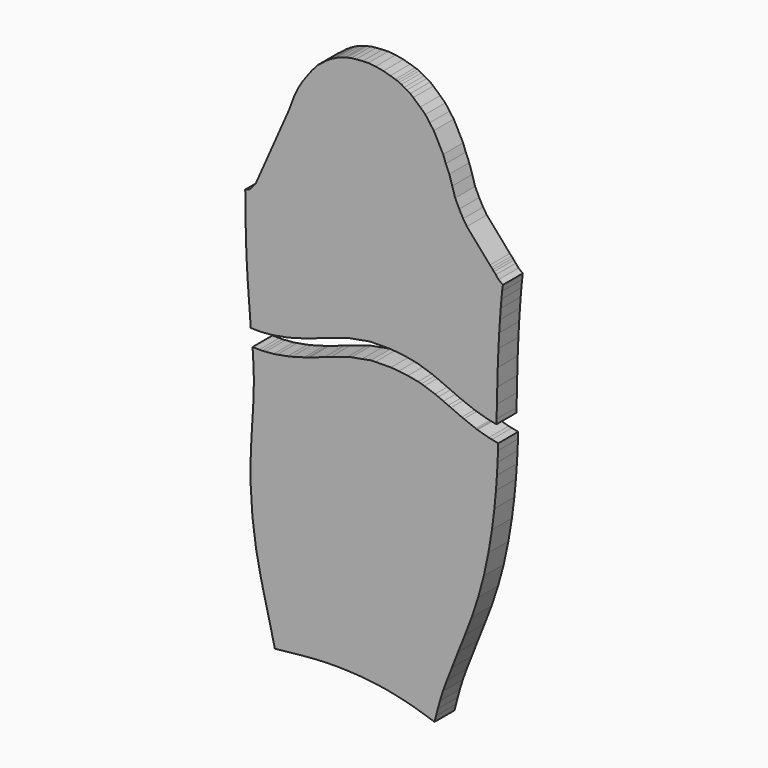
from build123d import *

# Parameters (mm, degrees)
F1_DEPTH = 25


with BuildPart() as f1:
    # F0 (on Front) → F1 (new body)
    with BuildSketch(Plane.XZ):
        Polygon((-99.35524, -267.157394), (-87.704154, -265.912724), (-77.642191, -264.889562), (-67.687226, -263.950115), (-57.626497, -263.202614), (-47.835855, -262.752223), (-37.623644, -262.622648), (-27.549122, -262.832515), (-17.617123, -263.335506), (-7.703785, -264.137581), (1.93555, -265.255393), (11.78373, -266.764753), (21.403733, -268.685028), (30.708282, -270.83535), (39.779716, -273.220339), (47.856634, -275.617817), (54.708213, -277.79442), (60.621898, -279.7178), (62.100178, -273.892381), (63.860292, -267.155842), (66.065188, -259.260817), (68.922512, -250.058256), (72.873976, -239.227413), (78.009644, -226.195026), (84.088358, -210.560021), (90.96442, -193.298534), (97.880029, -175.224811), (104.237719, -155.856182), (109.972263, -134.97015), (114.571321, -113.121317), (118.10686, -91.616372), (120.577504, -72.156973), (122.125705, -55.726912), (123.12777, -41.873435), (123.758995, -30.217446), (124.191324, -19.726469), (124.403661, -13.319637), (118.051474, -12.002012), (114.902297, -11.379006), (103.790009, -8.175114), (102.941473, -7.932579), (102.774185, -7.869009), (101.851989, -7.507658), (90.04621, -2.907224), (87.941009, -2.099751), (77.087624, 2.698767), (74.31532, 3.890768), (69.497222, 5.997663), (64.486402, 8.188801), (61.150429, 9.579169), (50.325408, 13.192707), (47.439086, 14.157448), (44.15215, 14.980091), (33.917572, 16.920968), (24.832063, 18.047035), (16.925466, 18.617653), (1.300727, 18.502788), (-3.02828, 18.408632), (-11.997373, 16.688876), (-22.540419, 14.802432), (-26.847447, 13.566969), (-43.403485, 8.30176), (-49.739938, 6.067019), (-65.069438, 0.721942), (-65.631731, 0.525868), (-66.822744, 0.149595), (-69.900765, -0.691604), (-82.198069, -4.148932), (-86.677218, -5.146552), (-96.860889, -7.030491), (-100.650569, -7.635152), (-108.615022, -8.256464), (-111.81327, -8.50803), (-114.846382, -8.486087), (-121.66787, -8.40389), (-121.242843, -14.793437), (-120.757245, -23.907133), (-120.423058, -34.545006), (-120.480208, -47.140266), (-121.136163, -62.259157), (-122.286607, -80.620535), (-123.449045, -102.956413), (-123.594037, -129.314381), (-121.806265, -157.957926), (-118.219785, -184.666238), (-113.801807, -206.999505), (-109.393073, -225.58084), (-105.540493, -241.278075), (-102.235424, -254.856704), align=None)
        Polygon((-125.782705, 128.917153), (-129.062374, 127.987089), (-128.75574, 122.909312), (-128.690088, 116.899531), (-128.652305, 109.84454), (-128.59512, 101.393501), (-128.429667, 91.558586), (-128.095552, 79.860298), (-127.522887, 66.053599), (-126.616672, 50.190206), (-125.498014, 34.653661), (-124.489775, 21.756211), (-123.65729, 10.717336), (-123.462027, 7.781413), (-116.640504, 7.699216), (-113.607427, 7.677273), (-110.409179, 7.928839), (-102.444727, 8.550116), (-98.655011, 9.154777), (-88.471375, 11.038751), (-83.992226, 12.036336), (-71.694887, 15.4937), (-68.616865, 16.334898), (-67.425888, 16.711136), (-66.86356, 16.90721), (-51.534095, 22.252322), (-45.197607, 24.487064), (-28.641569, 29.752272), (-24.334541, 30.987735), (-13.79153, 32.874179), (-4.822402, 34.593935), (-0.49343, 34.688092), (15.131344, 34.802921), (23.037906, 34.232338), (32.123415, 33.106271), (42.357992, 31.165394), (45.644929, 30.342716), (48.531251, 29.37801), (59.356307, 25.764472), (62.69228, 24.374104), (67.703065, 22.182931), (72.521198, 20.076036), (75.293502, 18.884035), (86.146851, 14.085552), (88.252088, 13.278079), (100.057832, 8.677645), (100.980063, 8.31626), (101.147315, 8.252689), (101.995852, 8.010154), (113.10814, 4.806262), (116.257317, 4.183291), (122.609539, 2.865631), (122.767831, 7.641643), (123.099548, 20.739082), (123.450808, 36.054012), (123.935843, 53.439183), (124.623971, 70.255465), (125.393379, 84.414377), (126.176334, 96.343487), (126.917803, 106.396948), (127.60639, 114.846011), (128.283264, 121.936033), (129.062374, 127.891945), (124.731004, 131.111007), (121.987627, 134.641254), (120.126725, 136.650077), (118.959418, 138.193339), (117.667546, 139.441255), (116.077118, 141.215586), (92.994833, 167.633279), (89.268511, 173.340024), (85.373809, 180.553236), (81.284021, 188.974853), (78.387857, 198.625724), (75.360777, 207.999347), (71.889514, 216.193034), (69.247244, 223.532964), (59.839825, 241.445503), (55.722414, 247.019109), (51.380707, 252.946199), (46.299402, 257.733958), (39.296269, 263.930641), (36.268519, 266.463621), (32.910886, 268.539683), (30.253622, 269.975876), (27.504425, 271.600524), (25.185158, 272.622098), (23.492248, 273.547928), (21.227027, 274.145851), (16.28267, 275.706081), (9.413205, 277.600145), (1.605491, 279.030694), (-5.790953, 279.717799), (-11.402378, 279.505145), (-17.941749, 279.042724), (-22.593618, 278.590569), (-27.039041, 277.544124), (-30.013804, 276.473549), (-33.890832, 275.292132), (-37.71325, 273.92092), (-40.370866, 272.522579), (-43.719715, 270.766804), (-45.799587, 269.313219), (-48.025791, 267.92465), (-50.056239, 266.236855), (-53.201711, 263.83271), (-56.390082, 261.457457), (-58.186708, 259.497424), (-59.404003, 257.840462), (-61.690532, 255.533648), (-64.17564, 252.118971), (-67.319737, 247.98498), (-71.469497, 242.217945), (-75.866449, 235.03352), (-79.6931, 227.091751), (-82.601188, 219.33385), (-85.060543, 212.654603), (-118.453571, 136.861603), (-119.91975, 134.961824), (-121.672597, 132.711348), (-123.742732, 130.524408), align=None)
    extrude(amount=F1_DEPTH)


solid = f1.part
